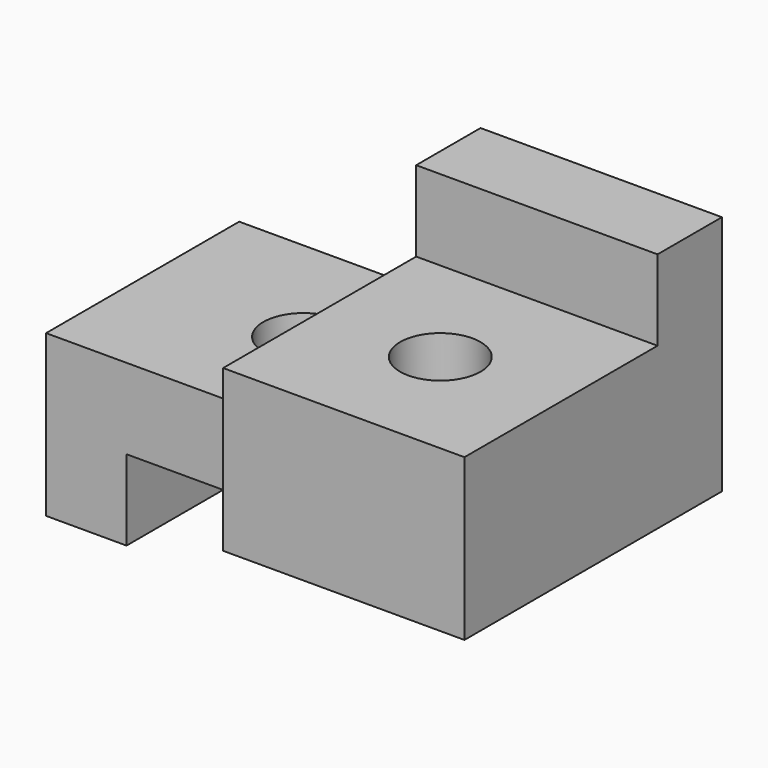
from build123d import *

# Parameters (mm, degrees)
F1_DEPTH      = 9.525
F2_W          = 19.05
F2_H          = 12.7
F3_DEPTH      = 6.35
F4_W          = 19.05
F4_H          = 12.7
F5_DEPTH      = 6.35
F6_R          = 3.175
F7_DEPTH      = 12.701
F7_DEPTH_BACK = 25.4


with BuildPart() as f1:
    # F0 (on Front) → F1 (new body, symmetric)
    with BuildSketch(Plane.XZ):
        Polygon((-19.05, 0), (-19.05, -12.7), (-12.7, -12.7), (-12.7, -6.35), (19.05, -6.35), (19.05, 12.7), (0, 12.7), (0, 0), align=None)
    extrude(amount=F1_DEPTH, both=True)

    # F2 (on face) → F3 (join)
    with BuildSketch(Plane.XZ.offset(9.525)):
        with Locations((9.525, 0)):
            Rectangle(F2_W, F2_H)
    extrude(amount=F3_DEPTH)

    # F4 (on face) → F5 (cut)
    with BuildSketch(Plane.XY.offset(12.7)):
        with Locations((9.525, -3.175)):
            Rectangle(F4_W, F4_H)
    extrude(amount=-F5_DEPTH, mode=Mode.SUBTRACT)

    # F6 (on Top) → F7 (cut, two sides)
    with BuildSketch(Plane.XY) as f7_sk:
        with Locations((-6.35, 0)):
            Circle(F6_R)
        with Locations((9.525, -6.35)):
            Circle(F6_R)
    extrude(amount=-F7_DEPTH, mode=Mode.SUBTRACT)
    extrude(f7_sk.sketch, amount=F7_DEPTH_BACK, mode=Mode.SUBTRACT)


solid = f1.part
